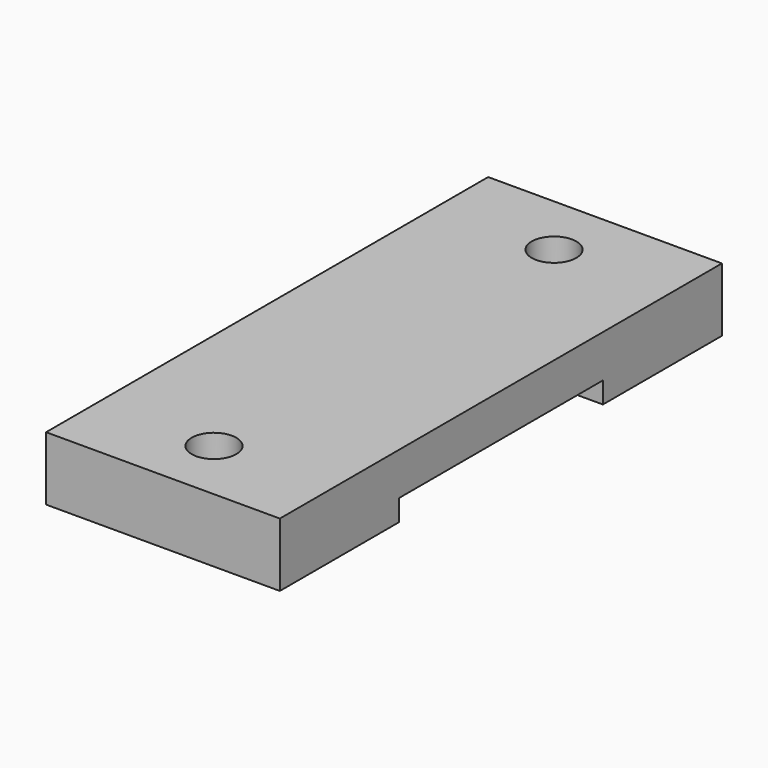
from build123d import *

# Parameters (mm, degrees)
F0_W     = 11
F0_H     = 26
F1_DEPTH = 3
F2_W     = 11
F2_H     = 12
F3_DEPTH = 1
F5_D     = 2.1


with BuildPart() as f1:
    # F0 (on Top) → F1 (new body)
    with BuildSketch(Plane.XY):
        Rectangle(F0_W, F0_H)
    extrude(amount=F1_DEPTH)

    # F2 (on face) → F3 (cut)
    with BuildSketch(Plane(origin=(0, 0, 0), x_dir=(1, 0, 0), z_dir=(0, 0, -1))):
        Rectangle(F2_W, F2_H)
    extrude(amount=-F3_DEPTH, mode=Mode.SUBTRACT)

    # F5 (through all)
    with Locations(Plane.XY.offset(3)):
        with Locations((0, 10), (0, -10)):
            Hole(F5_D / 2)


solid = f1.part
